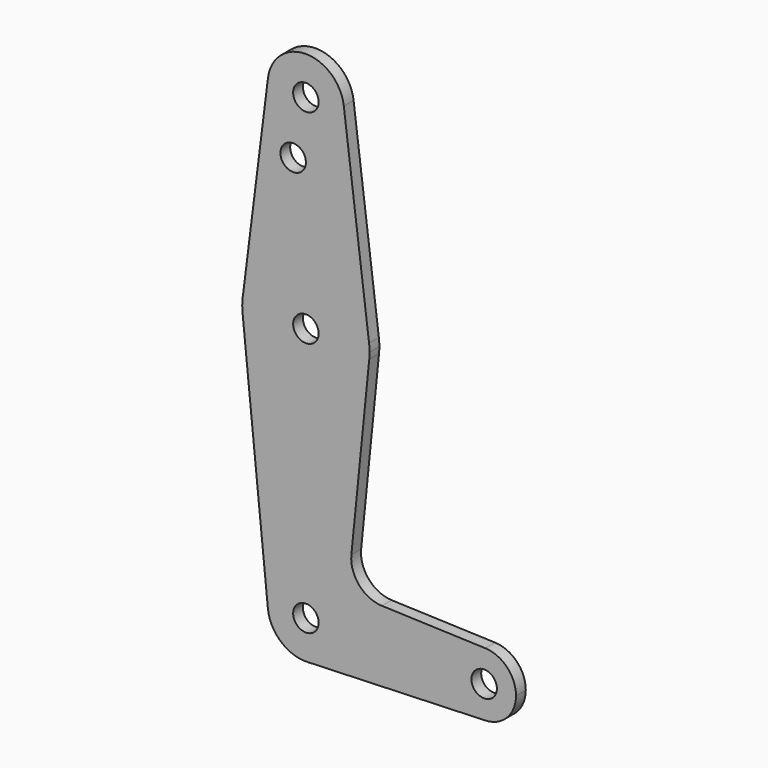
from build123d import *

# Parameters (mm, degrees)
F0_R     = 3.175
F1_DEPTH = 3.048


with BuildPart() as f1:
    # F0 (on Front) → F1 (new body)
    with BuildSketch(Plane.XZ):
        with BuildLine():
            ThreePointArc((-46.491648, 60.700057), (-37.633982, 50.009068), (-27.515584, 59.515566))
            ThreePointArc((-27.515584, 59.515566), (-27.534279, 60.112049), (-27.590291, 60.706191))
            ThreePointArc((-27.590291, 60.706191), (-37.043675, 69.040565), (-46.491648, 60.700057))
        make_face()
        with Locations((-37.040584, 59.515566)):
            Circle(F0_R, mode=Mode.SUBTRACT)
        with BuildLine():
            ThreePointArc((-27.590291, 60.706191), (-27.534279, 60.112049), (-27.515584, 59.515566))
            ThreePointArc((-27.515584, 59.515566), (-37.633982, 50.009068), (-46.491648, 60.700057))
            Line((-46.491648, 60.700057), (-52.633224, 11.696373))
            ThreePointArc((-52.633224, 11.696373), (-36.536155, 24.582549), (-21.290096, 10.699941))
            Line((-21.290096, 10.699941), (-27.590291, 60.706191))
        make_face()
        with Locations((-40.215584, 45.240766)):
            Circle(F0_R, mode=Mode.SUBTRACT)
        with BuildLine():
            ThreePointArc((-21.245158, 7.128066), (-37.040584, -7.159434), (-52.836009, 7.128066))
            Line((-52.836009, 7.128066), (-46.517839, -55.736934))
            ThreePointArc((-46.517839, -55.736934), (-37.517432, -45.271378), (-27.515584, -54.784434))
            ThreePointArc((-27.515584, -54.784434), (-30.186176, -61.398262), (-36.700405, -64.303358))
            Line((-36.700405, -64.303358), (7.692898, -62.716871))
            ThreePointArc((7.692898, -62.716871), (-0.528084, -54.784434), (7.692898, -46.851998))
            Line((7.692898, -46.851998), (-18.072984, -45.931201))
            ThreePointArc((-18.072984, -45.931201), (-23.779384, -43.213075), (-25.699397, -37.191053))
            Line((-25.699397, -37.191053), (-21.245158, 7.128066))
        make_face()
        with BuildLine():
            ThreePointArc((-21.165584, 8.715566), (-21.196742, 9.709704), (-21.290096, 10.699941))
            ThreePointArc((-21.290096, 10.699941), (-36.536155, 24.582549), (-52.633224, 11.696373))
            ThreePointArc((-52.633224, 11.696373), (-52.899966, 9.419559), (-52.836009, 7.128066))
            ThreePointArc((-52.836009, 7.128066), (-37.040584, -7.159434), (-21.245158, 7.128066))
            ThreePointArc((-21.245158, 7.128066), (-21.18549, 7.920819), (-21.165584, 8.715566))
        make_face()
        with Locations((-37.040584, 8.715566)):
            Circle(F0_R, mode=Mode.SUBTRACT)
        with BuildLine():
            ThreePointArc((-27.515584, -54.784434), (-37.517432, -45.271378), (-46.517839, -55.736934))
            ThreePointArc((-46.517839, -55.736934), (-43.302967, -61.961354), (-36.700405, -64.303358))
            ThreePointArc((-36.700405, -64.303358), (-30.186176, -61.398262), (-27.515584, -54.784434))
        make_face()
        with Locations((-37.040584, -54.784434)):
            Circle(F0_R, mode=Mode.SUBTRACT)
        with BuildLine():
            ThreePointArc((7.692898, -46.851998), (-0.528084, -54.784434), (7.692898, -62.716871))
            ThreePointArc((7.692898, -62.716871), (13.121423, -60.295957), (15.346916, -54.784434))
            ThreePointArc((15.346916, -54.784434), (13.121423, -49.272912), (7.692898, -46.851998))
        make_face()
        with Locations((7.409416, -54.784434)):
            Circle(F0_R, mode=Mode.SUBTRACT)
    extrude(amount=F1_DEPTH)


solid = f1.part
